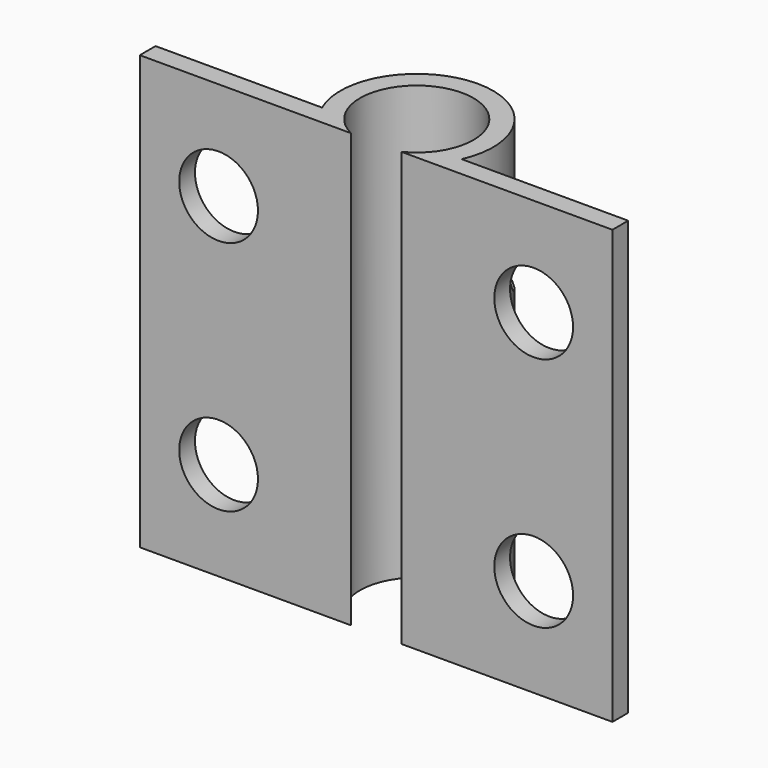
from build123d import *

# Parameters (mm, degrees)
F1_DEPTH  = 34.925
F3_D      = 6.35
F6_DEPTH  = 22.225
F8_DEPTH  = 5.842
F10_DEPTH = 5.842
F11_R     = 2.54


with BuildPart() as f1:
    # F0 (on Top) → F1 (new body)
    with BuildSketch(Plane.XY):
        with BuildLine():
            Line((-5.6265138051, 0.79375), (-19.05, 0.79375))
            Line((-19.05, 0.79375), (-19.05, -0.79375))
            Line((-19.05, -0.79375), (-2.035580681, -0.79375))
            ThreePointArc((-2.035580681, -0.79375), (0, 7.8720984695), (2.035580681, -0.79375))
            Line((2.035580681, -0.79375), (19.05, -0.79375))
            Line((19.05, -0.79375), (19.05, 0.79375))
            Line((19.05, 0.79375), (5.6265138051, 0.79375))
            ThreePointArc((5.6265138051, 0.79375), (0, 9.4595984695), (-5.6265138051, 0.79375))
        make_face()
    extrude(amount=F1_DEPTH)

    # F3 (through all)
    with Locations(Plane(origin=(0, 0.79375, 0), x_dir=(-1, 0, 0), z_dir=(0, 1, 0))):
        with Locations((12.7, 7.9375), (12.7, 26.9875), (-12.7, 26.9875), (-12.7, 7.9375)):
            Hole(F3_D / 2)

    # F5 (on offset) → F6 (cut)
    with BuildSketch(Plane.XY.offset(6.35)):
        Polygon((-4.318, 12.3874302953), (0, 3.3000984695), (4.318, 12.3874302953), align=None)
    extrude(amount=F6_DEPTH, mode=Mode.SUBTRACT)

    # F7 (on offset) → F8 (cut)
    with BuildSketch(Plane.XY.offset(6.35)):
        Polygon((0, 15.2833266184), (0, 3.3000984695), (13.4768653661, 8.1709222868), align=None)
    extrude(amount=F8_DEPTH, mode=Mode.SUBTRACT)

    # F9 (on face) → F10 (cut)
    with BuildSketch(Plane(origin=(0, 0, 28.575), x_dir=(1, 0, 0), z_dir=(0, 0, -1))):
        Polygon((8.5841133563, -6.4025783601), (0, -3.3000984695), (0, -13.6242890731), align=None)
    extrude(amount=F10_DEPTH, mode=Mode.SUBTRACT)

    # F11
    f11_edges = [f1.edges().sort_by_distance(p)[0] for p in [
        (-2.302872, 8.146546, 28.575),
        (-2.302872, 8.146546, 6.35),
        (5.046277, 5.12393, 6.35),
        (5.046277, 5.12393, 12.192),
        (5.046277, 5.12393, 22.733),
        (5.046277, 5.12393, 28.575),
    ]]
    fillet(f11_edges, radius=F11_R)


solid = f1.part
